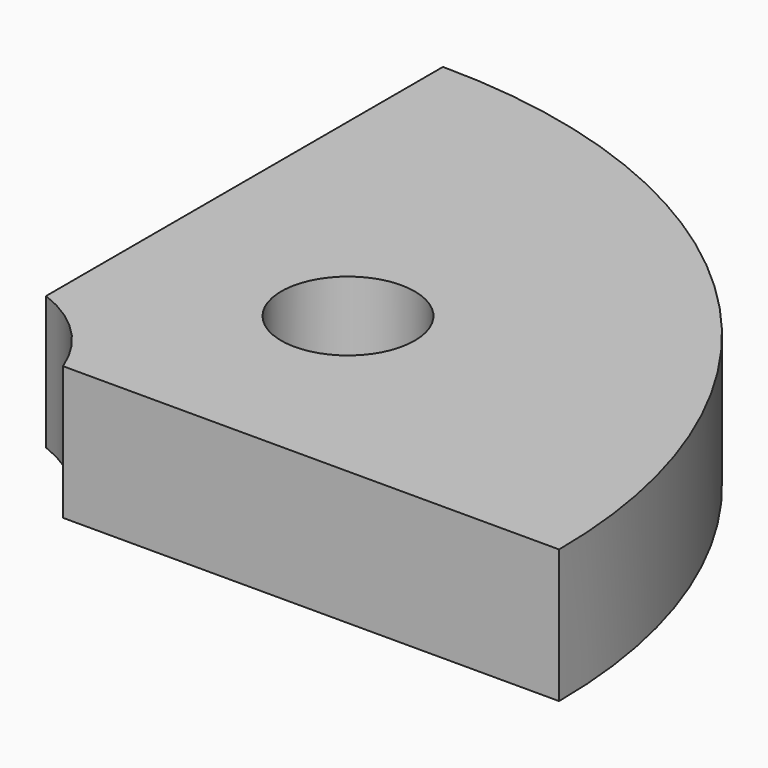
from build123d import *

# Parameters (mm, degrees)
F0_R     = 2.921
F1_DEPTH = 5.842
F3_DEPTH = 5.842


with BuildPart() as f1:
    # F0 (on Top) → F1 (new body)
    with BuildSketch(Plane.XY):
        with BuildLine():
            Line((0, 25.4), (0, 0))
            Line((0, 0), (25.4, 0))
            ThreePointArc((25.4, 0), (17.9605122421, 17.9605122421), (0, 25.4))
        make_face()
        with Locations((8.9802561211, 8.9802561211)):
            Circle(F0_R, mode=Mode.SUBTRACT)
    extrude(amount=F1_DEPTH)

    # F2 (on face) → F3 (cut, through all)
    with BuildSketch(Plane.XY.offset(5.842)):
        with BuildLine():
            Line((0, 0), (3.6948170712, 0))
            ThreePointArc((3.6948170712, 0), (2.2450640303, 2.2450640303), (0, 3.6948170712))
            Line((0, 3.6948170712), (0, 0))
        make_face()
    extrude(amount=-F3_DEPTH, mode=Mode.SUBTRACT)


solid = f1.part
